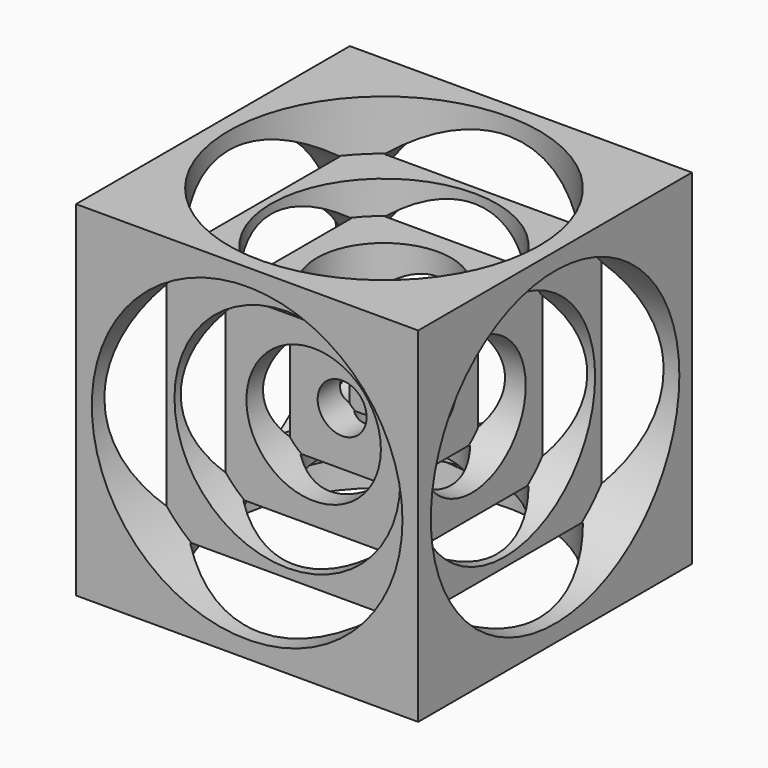
from build123d import *

# Parameters (mm, degrees)
F0_W      = 25.4
F0_H      = 25.580178
F2_DEPTH  = 25.4
F1_R      = 1.8161
F3_DEPTH  = 11.2776
F1_R_2    = 11.5316
F1_R_3    = 8.382
F4_DEPTH  = 3.7338
F1_R_4    = 4.9911
F5_DEPTH  = 8.8138
F6_DEPTH  = 6.1722
F7_R      = 1.8161
F12_DEPTH = 11.2776
F8_R      = 1.8161
F13_DEPTH = 11.2776
F9_R      = 1.8161
F14_DEPTH = 11.2776
F11_R     = 1.8161
F15_DEPTH = 11.2776
F10_R     = 1.8161
F16_DEPTH = 11.2776
F9_R_2    = 4.9911
F17_DEPTH = 8.8138
F11_R_2   = 4.9911
F18_DEPTH = 8.8138
F11_R_3   = 8.382
F19_DEPTH = 6.1722
F11_R_4   = 11.5316
F20_DEPTH = 3.7338
F21_DEPTH = 8.8138
F9_R_3    = 8.382
F22_DEPTH = 6.1722
F9_R_4    = 11.5316
F23_DEPTH = 3.7338
F10_R_2   = 4.9911
F24_DEPTH = 8.8138
F10_R_3   = 8.382
F25_DEPTH = 6.1722
F10_R_4   = 11.5316
F26_DEPTH = 3.7338
F8_R_2    = 4.9911
F27_DEPTH = 8.8138
F8_R_3    = 8.382
F28_DEPTH = 6.1722
F7_R_2    = 4.9911
F29_DEPTH = 8.8138
F7_R_3    = 8.382
F30_DEPTH = 6.1722
F7_R_4    = 11.5316
F31_DEPTH = 3.7338
F8_R_4    = 11.5316
F32_DEPTH = 3.7338


with BuildPart() as f2:
    # F0 (on Front) → F2 (new body)
    with BuildSketch(Plane.XZ):
        Rectangle(F0_W, F0_H)
    extrude(amount=-F2_DEPTH)

    # F1 (on Front) → F3 (cut)
    with BuildSketch(Plane.XZ):
        Circle(F1_R)
    extrude(amount=-F3_DEPTH, mode=Mode.SUBTRACT)

    # F1 (on Front) → F4 (cut)
    with BuildSketch(Plane.XZ):
        Circle(F1_R_2)
        Circle(F1_R_3, mode=Mode.SUBTRACT)
    extrude(amount=-F4_DEPTH, mode=Mode.SUBTRACT)

    # F1 (on Front) → F5 (cut)
    with BuildSketch(Plane.XZ):
        Circle(F1_R_4)
        Circle(F1_R, mode=Mode.SUBTRACT)
    extrude(amount=-F5_DEPTH, mode=Mode.SUBTRACT)

    # F1 (on Front) → F6 (cut)
    with BuildSketch(Plane.XZ):
        Circle(F1_R_3)
        Circle(F1_R_4, mode=Mode.SUBTRACT)
    extrude(amount=-F6_DEPTH, mode=Mode.SUBTRACT)

    # F7 (on face) → F12 (cut)
    with BuildSketch(Plane(origin=(-12.7, 0, 0), x_dir=(0, -1, 0), z_dir=(-1, 0, 0))):
        with Locations((-12.7, 0)):
            Circle(F7_R)
    extrude(amount=-F12_DEPTH, mode=Mode.SUBTRACT)

    # F8 (on face) → F13 (cut)
    with BuildSketch(Plane(origin=(0, 0, -12.790089), x_dir=(1, 0, 0), z_dir=(0, 0, -1))):
        with Locations((0, -12.7)):
            Circle(F8_R)
    extrude(amount=-F13_DEPTH, mode=Mode.SUBTRACT)

    # F9 (on face) → F14 (cut)
    with BuildSketch(Plane.XY.offset(12.790089)):
        with Locations((0, 12.7)):
            Circle(F9_R)
    extrude(amount=-F14_DEPTH, mode=Mode.SUBTRACT)

    # F11 (on face) → F15 (cut)
    with BuildSketch(Plane(origin=(0, 25.4, 0), x_dir=(-1, 0, 0), z_dir=(0, 1, 0))):
        Circle(F11_R)
    extrude(amount=-F15_DEPTH, mode=Mode.SUBTRACT)

    # F10 (on face) → F16 (cut)
    with BuildSketch(Plane.YZ.offset(12.7)):
        with Locations((12.7, 0)):
            Circle(F10_R)
    extrude(amount=-F16_DEPTH, mode=Mode.SUBTRACT)

    # F9 (on face) → F17 (cut)
    with BuildSketch(Plane.XY.offset(12.790089)):
        with Locations((0, 12.7)):
            Circle(F9_R_2)
        with Locations((0, 12.7)):
            Circle(F9_R, mode=Mode.SUBTRACT)
    extrude(amount=-F17_DEPTH, mode=Mode.SUBTRACT)

    # F11 (on face) → F18 (cut)
    with BuildSketch(Plane(origin=(0, 25.4, 0), x_dir=(-1, 0, 0), z_dir=(0, 1, 0))):
        Circle(F11_R_2)
        Circle(F11_R, mode=Mode.SUBTRACT)
    extrude(amount=-F18_DEPTH, mode=Mode.SUBTRACT)

    # F11 (on face) → F19 (cut)
    with BuildSketch(Plane(origin=(0, 25.4, 0), x_dir=(-1, 0, 0), z_dir=(0, 1, 0))):
        Circle(F11_R_3)
        Circle(F11_R_2, mode=Mode.SUBTRACT)
    extrude(amount=-F19_DEPTH, mode=Mode.SUBTRACT)

    # F11 (on face) → F20 (cut)
    with BuildSketch(Plane(origin=(0, 25.4, 0), x_dir=(-1, 0, 0), z_dir=(0, 1, 0))):
        Circle(F11_R_4)
        Circle(F11_R_3, mode=Mode.SUBTRACT)
    extrude(amount=-F20_DEPTH, mode=Mode.SUBTRACT)

    # F9 (on face) → F21 (cut)
    with BuildSketch(Plane.XY.offset(12.790089)):
        with Locations((0, 12.7)):
            Circle(F9_R_2)
        with Locations((0, 12.7)):
            Circle(F9_R, mode=Mode.SUBTRACT)
    extrude(amount=-F21_DEPTH, mode=Mode.SUBTRACT)

    # F9 (on face) → F22 (cut)
    with BuildSketch(Plane.XY.offset(12.790089)):
        with Locations((0, 12.7)):
            Circle(F9_R_3)
        with Locations((0, 12.7)):
            Circle(F9_R_2, mode=Mode.SUBTRACT)
    extrude(amount=-F22_DEPTH, mode=Mode.SUBTRACT)

    # F9 (on face) → F23 (cut)
    with BuildSketch(Plane.XY.offset(12.790089)):
        with Locations((0, 12.7)):
            Circle(F9_R_4)
        with Locations((0, 12.7)):
            Circle(F9_R_3, mode=Mode.SUBTRACT)
    extrude(amount=-F23_DEPTH, mode=Mode.SUBTRACT)

    # F10 (on face) → F24 (cut)
    with BuildSketch(Plane.YZ.offset(12.7)):
        with Locations((12.7, 0)):
            Circle(F10_R_2)
        with Locations((12.7, 0)):
            Circle(F10_R, mode=Mode.SUBTRACT)
    extrude(amount=-F24_DEPTH, mode=Mode.SUBTRACT)

    # F10 (on face) → F25 (cut)
    with BuildSketch(Plane.YZ.offset(12.7)):
        with Locations((12.7, 0)):
            Circle(F10_R_3)
        with Locations((12.7, 0)):
            Circle(F10_R_2, mode=Mode.SUBTRACT)
    extrude(amount=-F25_DEPTH, mode=Mode.SUBTRACT)

    # F10 (on face) → F26 (cut)
    with BuildSketch(Plane.YZ.offset(12.7)):
        with Locations((12.7, 0)):
            Circle(F10_R_4)
        with Locations((12.7, 0)):
            Circle(F10_R_3, mode=Mode.SUBTRACT)
    extrude(amount=-F26_DEPTH, mode=Mode.SUBTRACT)

    # F8 (on face) → F27 (cut)
    with BuildSketch(Plane(origin=(0, 0, -12.790089), x_dir=(1, 0, 0), z_dir=(0, 0, -1))):
        with Locations((0, -12.7)):
            Circle(F8_R_2)
        with Locations((0, -12.7)):
            Circle(F8_R, mode=Mode.SUBTRACT)
    extrude(amount=-F27_DEPTH, mode=Mode.SUBTRACT)

    # F8 (on face) → F28 (cut)
    with BuildSketch(Plane(origin=(0, 0, -12.790089), x_dir=(1, 0, 0), z_dir=(0, 0, -1))):
        with Locations((0, -12.7)):
            Circle(F8_R_3)
        with Locations((0, -12.7)):
            Circle(F8_R_2, mode=Mode.SUBTRACT)
    extrude(amount=-F28_DEPTH, mode=Mode.SUBTRACT)

    # F7 (on face) → F29 (cut)
    with BuildSketch(Plane(origin=(-12.7, 0, 0), x_dir=(0, -1, 0), z_dir=(-1, 0, 0))):
        with Locations((-12.7, 0)):
            Circle(F7_R_2)
        with Locations((-12.7, 0)):
            Circle(F7_R, mode=Mode.SUBTRACT)
    extrude(amount=-F29_DEPTH, mode=Mode.SUBTRACT)

    # F7 (on face) → F30 (cut)
    with BuildSketch(Plane(origin=(-12.7, 0, 0), x_dir=(0, -1, 0), z_dir=(-1, 0, 0))):
        with Locations((-12.7, 0)):
            Circle(F7_R_3)
        with Locations((-12.7, 0)):
            Circle(F7_R_2, mode=Mode.SUBTRACT)
    extrude(amount=-F30_DEPTH, mode=Mode.SUBTRACT)

    # F7 (on face) → F31 (cut)
    with BuildSketch(Plane(origin=(-12.7, 0, 0), x_dir=(0, -1, 0), z_dir=(-1, 0, 0))):
        with Locations((-12.7, 0)):
            Circle(F7_R_4)
        with Locations((-12.7, 0)):
            Circle(F7_R_3, mode=Mode.SUBTRACT)
    extrude(amount=-F31_DEPTH, mode=Mode.SUBTRACT)

    # F8 (on face) → F32 (cut)
    with BuildSketch(Plane(origin=(0, 0, -12.790089), x_dir=(1, 0, 0), z_dir=(0, 0, -1))):
        with Locations((0, -12.7)):
            Circle(F8_R_4)
        with Locations((0, -12.7)):
            Circle(F8_R_3, mode=Mode.SUBTRACT)
    extrude(amount=-F32_DEPTH, mode=Mode.SUBTRACT)


solid = f2.part
